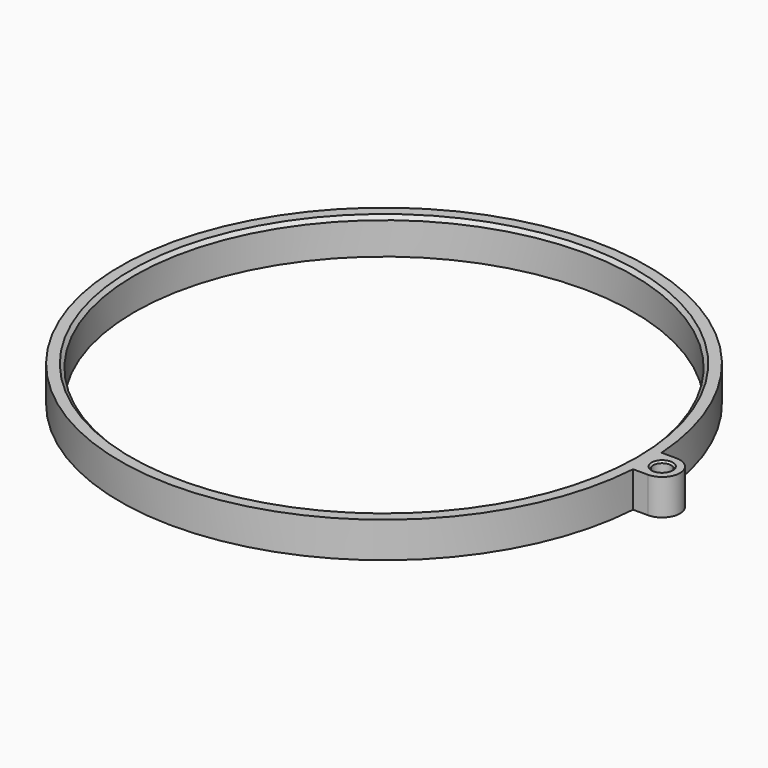
from build123d import *

# Parameters (mm, degrees)
SKETCH_R        = 70
SKETCH_R_2      = 2.5
PAD_DEPTH       = 10
CHAMFER_SIZE    = 1
CHAMFER001_SIZE = 0.5


with BuildPart() as part:
    # Sketch → Pad (new body)
    with BuildSketch(Plane.XY):
        with BuildLine():
            ThreePointArc((73.830888, 5), (-74, 0), (73.830888, -5))
            Line((78, -5), (73.830888, -5))
            ThreePointArc((78, -5), (83, 0), (78, 5))
            Line((73.830888, 5), (78, 5))
        make_face()
        Circle(SKETCH_R, mode=Mode.SUBTRACT)
        with Locations((78, 0)):
            Circle(SKETCH_R_2, mode=Mode.SUBTRACT)
    extrude(amount=PAD_DEPTH)

    # Chamfer
    chamfer_edges = [part.edges().sort_by_distance(p)[0] for p in [
        (-70, 0, 10),
    ]]
    chamfer(chamfer_edges, length=CHAMFER_SIZE)

    # Chamfer001
    chamfer001_edges = [part.edges().sort_by_distance(p)[0] for p in [
        (75.5, 0, 10),
    ]]
    chamfer(chamfer001_edges, length=CHAMFER001_SIZE)


solid = part.part
